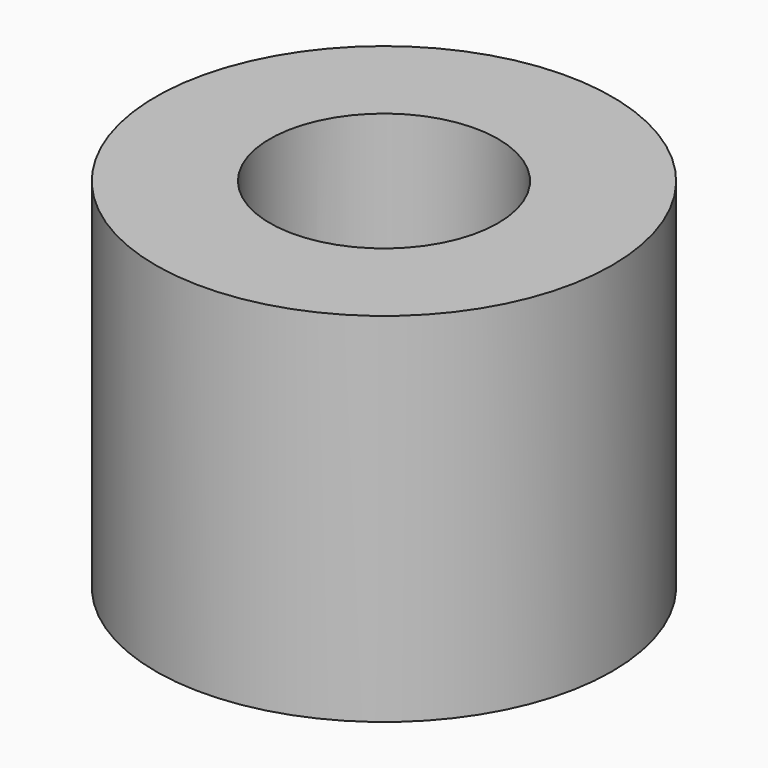
from build123d import *

# Parameters (mm, degrees)
F0_R     = 30
F0_R_2   = 15
F1_DEPTH = 47
F3_D     = 12
F3_DEPTH = 30
F3_TIP   = 3.6051637142


with BuildPart() as f1:
    # F0 (on Top) → F1 (new body)
    with BuildSketch(Plane.XY):
        Circle(F0_R)
        Circle(F0_R_2, mode=Mode.SUBTRACT)
    extrude(amount=F1_DEPTH)

    # F3 (one way)
    with BuildSketch(Plane.YZ):
        with Locations((0, 23.5)):
            Circle(F3_D / 2)
    extrude(amount=-F3_DEPTH, mode=Mode.SUBTRACT)
    with Locations(Plane.YZ):
        with Locations((0, 23.5)):
            with Locations((0, 0, -(F3_DEPTH + F3_TIP / 2))):  # 118° drill point
                Cone(0, F3_D / 2, F3_TIP, mode=Mode.SUBTRACT)


solid = f1.part
